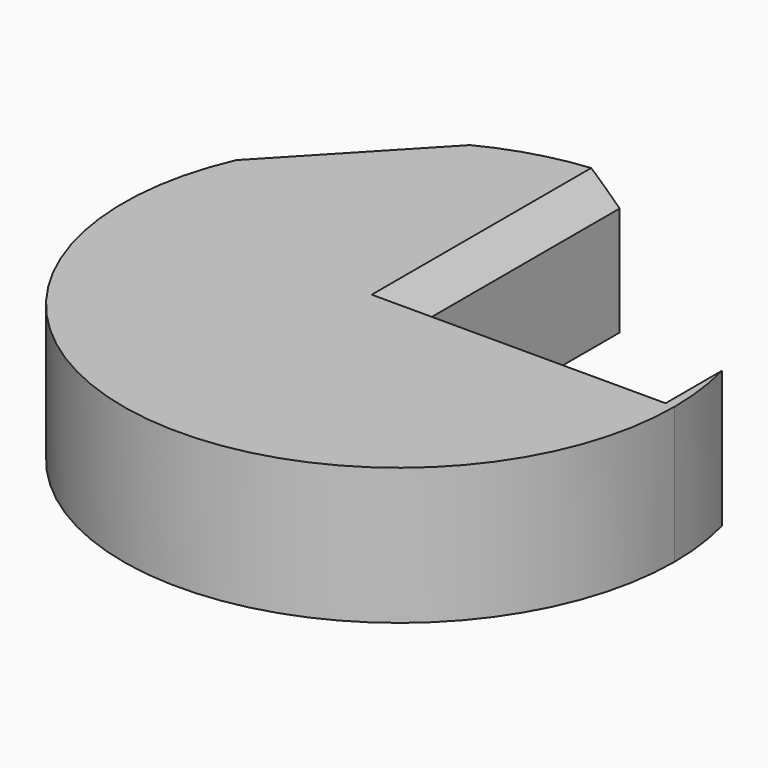
from build123d import *

# Parameters (mm, degrees)
F1_DEPTH = 25.4
F2_SIZE  = 5.08


with BuildPart() as f1:
    # F0 (on Top) → F1 (new body)
    with BuildSketch(Plane.XY):
        with BuildLine():
            Line((-23.323587, 45.661472), (-46.88239, 20.760568))
            ThreePointArc((-46.88239, 20.760568), (-10.609924, -50.163624), (51.273382, 0))
            ThreePointArc((51.273382, 0), (50.846535, 6.60224), (49.573101, 13.094554))
            Line((49.573101, 13.094554), (49.573101, 0))
            Line((49.573101, 0), (0, 0))
            Line((0, 0), (0, 51.273382))
            ThreePointArc((0, 51.273382), (-11.994616, 49.850666), (-23.323587, 45.661472))
        make_face()
    extrude(amount=F1_DEPTH)

    # F2
    f2_edges = [f1.edges().sort_by_distance(p)[0] for p in [
        (0, 25.636691, 25.4),
    ]]
    chamfer(f2_edges, length=F2_SIZE)


solid = f1.part
